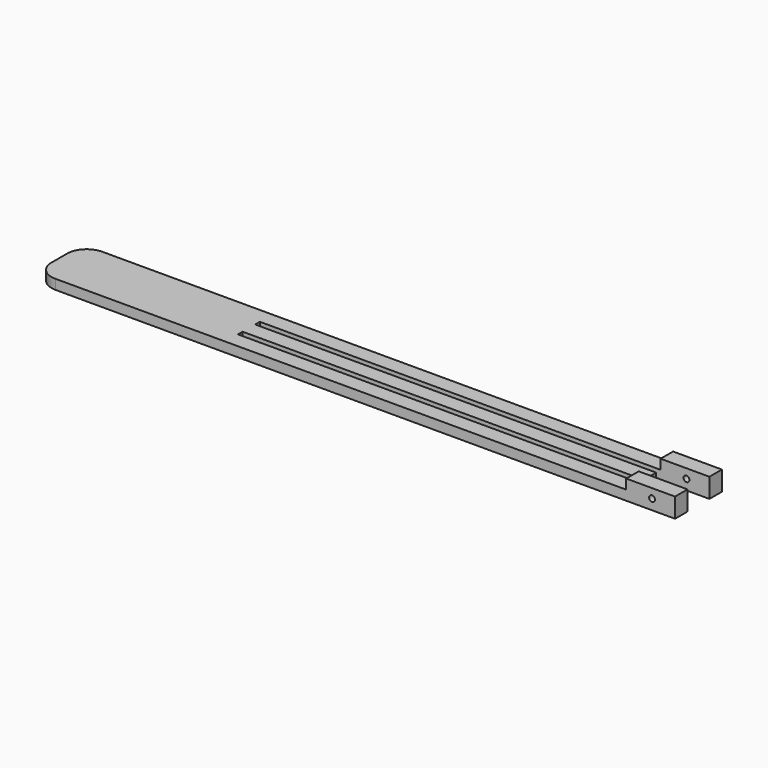
from build123d import *

# Parameters (mm, degrees)
F1_DEPTH = 5
F2_W     = 25
F2_H     = 8
F3_DEPTH = 5
F4_R     = 1.5
F5_DEPTH = 30.3


with BuildPart() as f1:
    # F0 (on Top) → F1 (new body)
    with BuildSketch(Plane.XY):
        with BuildLine():
            Line((-153.607063, -15), (163.607063, -15))
            Line((163.607063, -15), (163.607063, -7))
            Line((163.607063, -7), (-66.559589, -7))
            Line((-66.559589, -7), (-66.559589, -4))
            Line((-66.559589, -4), (138.750769, -4))
            Line((138.750769, -4), (138.750769, 4))
            Line((138.750769, 4), (-66.559589, 4))
            Line((-66.559589, 4), (-66.559589, 7))
            Line((-66.559589, 7), (163.607063, 7))
            Line((163.607063, 7), (163.607063, 15))
            Line((163.607063, 15), (-153.607063, 15))
            ThreePointArc((-153.607063, 15), (-160.678131, 12.071068), (-163.607063, 5))
            Line((-163.607063, 5), (-163.607063, -5))
            ThreePointArc((-163.607063, -5), (-160.678131, -12.071068), (-153.607063, -15))
        make_face()
    extrude(amount=F1_DEPTH)

    # F2 (on face) → F3 (join)
    with BuildSketch(Plane.XY.offset(5)):
        with Locations((151.107063, -11)):
            Rectangle(F2_W, F2_H)
        with Locations((151.107063, 11)):
            Rectangle(F2_W, F2_H)
    extrude(amount=F3_DEPTH)

    # F4 (on face) → F5 (cut)
    with BuildSketch(Plane.XZ.offset(15)):
        with Locations((151.84553, 5.24334)):
            Circle(F4_R)
    extrude(amount=-F5_DEPTH, mode=Mode.SUBTRACT)


solid = f1.part
